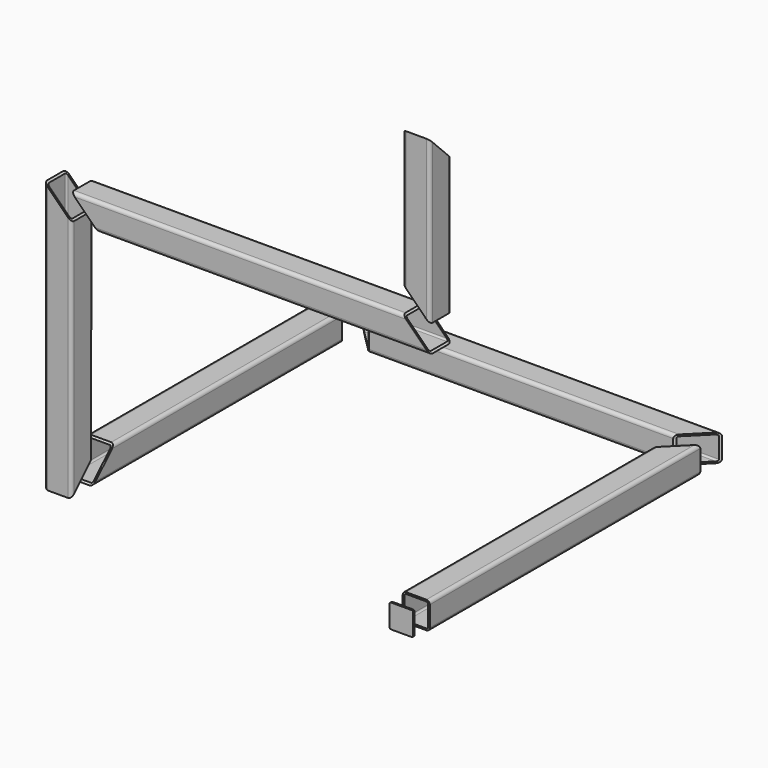
from build123d import *

# Parameters (mm, degrees)
F1_DEPTH  = 500
F3_DEPTH  = 40.001
F5_DEPTH  = 530
F7_DEPTH  = 264.2357556353
F10_DEPTH = 259.001
F14_DEPTH = 400
F16_DEPTH = 455.4894368181
F18_DEPTH = 531.1934248934
F20_DEPTH = 530
F22_DEPTH = 531.1934248934
F24_DEPTH = 240
F26_DEPTH = 531.1934248934
F28_DEPTH = 985.4894368181
F30_DEPTH = 500
F32_DEPTH = 985.4894368181
F34_DEPTH = 640.001
F37_DEPTH = 500
F39_DEPTH = 40.001
F41_DEPTH = 40.001
F43_DEPTH = 530
F45_DEPTH = 40.001
F47_DEPTH = 500
F49_DEPTH = 40.001
F52_DEPTH = 2.5


with BuildPart() as f1:
    # F0 (on Front) → F1 (new body)
    with BuildSketch(Plane.XZ):
        with BuildLine():
            ThreePointArc((0, 5), (1.4644660941, 1.4644660941), (5, 0))
            Line((5, 0), (35, 0))
            ThreePointArc((35, 0), (38.5355339059, 1.4644660941), (40, 5))
            Line((40, 5), (40, 35))
            ThreePointArc((40, 35), (38.5355339059, 38.5355339059), (35, 40))
            Line((35, 40), (5, 40))
            ThreePointArc((5, 40), (1.4644660941, 38.5355339059), (0, 35))
            Line((0, 35), (0, 5))
        make_face()
        with BuildLine():
            ThreePointArc((2.5, 35), (3.232233047, 36.767766953), (5, 37.5))
            Line((5, 37.5), (35, 37.5))
            ThreePointArc((35, 37.5), (36.767766953, 36.767766953), (37.5, 35))
            Line((37.5, 35), (37.5, 5))
            ThreePointArc((37.5, 5), (36.767766953, 3.232233047), (35, 2.5))
            Line((35, 2.5), (5, 2.5))
            ThreePointArc((5, 2.5), (3.232233047, 3.232233047), (2.5, 5))
            Line((2.5, 5), (2.5, 35))
        make_face(mode=Mode.SUBTRACT)
    extrude(amount=-F1_DEPTH)

    # F2 (on face) → F3 (cut, through all)
    with BuildSketch(Plane.XY.offset(40)):
        Polygon((0, 460), (40, 500), (0, 500), align=None)
    extrude(amount=-F3_DEPTH, mode=Mode.SUBTRACT)


with BuildPart() as f5:
    # F4 (on Front) → F5 (new body)
    with BuildSketch(Plane.XZ):
        with BuildLine():
            ThreePointArc((-232.1100574732, 229.2347556353), (-230.6455913791, 225.6992217293), (-227.1100574732, 224.2347556353))
            Line((-227.1100574732, 224.2347556353), (-197.1100574732, 224.2347556353))
            ThreePointArc((-197.1100574732, 224.2347556353), (-193.5745235672, 225.6992217293), (-192.1100574732, 229.2347556353))
            Line((-192.1100574732, 229.2347556353), (-192.1100574732, 259.2347556353))
            ThreePointArc((-192.1100574732, 259.2347556353), (-193.5745235672, 262.7702895412), (-197.1100574732, 264.2347556353))
            Line((-197.1100574732, 264.2347556353), (-227.1100574732, 264.2347556353))
            ThreePointArc((-227.1100574732, 264.2347556353), (-230.6455913791, 262.7702895412), (-232.1100574732, 259.2347556353))
            Line((-232.1100574732, 259.2347556353), (-232.1100574732, 229.2347556353))
        make_face()
        with BuildLine():
            ThreePointArc((-229.6100574732, 259.2347556353), (-228.8778244261, 261.0025225882), (-227.1100574732, 261.7347556353))
            Line((-227.1100574732, 261.7347556353), (-197.1100574732, 261.7347556353))
            ThreePointArc((-197.1100574732, 261.7347556353), (-195.3422905202, 261.0025225882), (-194.6100574732, 259.2347556353))
            Line((-194.6100574732, 259.2347556353), (-194.6100574732, 229.2347556353))
            ThreePointArc((-194.6100574732, 229.2347556353), (-195.3422905202, 227.4669886823), (-197.1100574732, 226.7347556353))
            Line((-197.1100574732, 226.7347556353), (-227.1100574732, 226.7347556353))
            ThreePointArc((-227.1100574732, 226.7347556353), (-228.8778244261, 227.4669886823), (-229.6100574732, 229.2347556353))
            Line((-229.6100574732, 229.2347556353), (-229.6100574732, 259.2347556353))
        make_face(mode=Mode.SUBTRACT)
    extrude(amount=-F5_DEPTH)

    # F6 (on face) → F7 (cut, through all)
    with BuildSketch(Plane.XY.offset(264.2347556353)):
        Polygon((-232.1100574732, 40), (-232.1100574732, 0), (-192.1100574732, 0), align=None)
        Polygon((-192.1100574732, 530), (-232.1100574732, 530), (-232.1100574732, 490), align=None)
    extrude(amount=-F7_DEPTH, mode=Mode.SUBTRACT)


with BuildPart() as f8_1:
    # F8: copy of F1
    add(f1.part.moved(Location((-219, 0, 7))))


with BuildPart() as f10_tool:
    # F9 (on face) → F10 (new body, through all)
    with BuildSketch(Plane(origin=(-219, 0, 0), x_dir=(0, -1, 0), z_dir=(-1, 0, 0))):
        Polygon((-40, 7), (0, 7), (0, 47), align=None)
    extrude(amount=-F10_DEPTH)


with BuildPart() as f1_1:
    add(f1.part)

    # F10: cut by f10_tool
    add(f10_tool.part, mode=Mode.SUBTRACT)


with BuildPart() as f8_1_1:
    add(f8_1.part)

    # F10: cut by f10_tool
    add(f10_tool.part, mode=Mode.SUBTRACT)


with BuildPart() as f11_1:
    # F11: copy of F1
    add(f1_1.part.moved(Location((124, 2, 116))))


with BuildPart() as f14:
    # F13 (on Top) → F14 (new body)
    with BuildSketch(Plane.XY):
        with BuildLine():
            ThreePointArc((183.3783793449, 3.8075751066), (184.842845439, 0.2720412007), (188.3783793449, -1.1924248934))
            Line((188.3783793449, -1.1924248934), (218.3783793449, -1.1924248934))
            ThreePointArc((218.3783793449, -1.1924248934), (221.9139132509, 0.2720412007), (223.3783793449, 3.8075751066))
            Line((223.3783793449, 3.8075751066), (223.3783793449, 33.8075751066))
            ThreePointArc((223.3783793449, 33.8075751066), (221.9139132509, 37.3431090126), (218.3783793449, 38.8075751066))
            Line((218.3783793449, 38.8075751066), (188.3783793449, 38.8075751066))
            ThreePointArc((188.3783793449, 38.8075751066), (184.842845439, 37.3431090126), (183.3783793449, 33.8075751066))
            Line((183.3783793449, 33.8075751066), (183.3783793449, 3.8075751066))
        make_face()
        with BuildLine():
            ThreePointArc((185.8783793449, 33.8075751066), (186.610612392, 35.5753420596), (188.3783793449, 36.3075751066))
            Line((188.3783793449, 36.3075751066), (218.3783793449, 36.3075751066))
            ThreePointArc((218.3783793449, 36.3075751066), (220.1461462979, 35.5753420596), (220.8783793449, 33.8075751066))
            Line((220.8783793449, 33.8075751066), (220.8783793449, 3.8075751066))
            ThreePointArc((220.8783793449, 3.8075751066), (220.1461462979, 2.0398081537), (218.3783793449, 1.3075751066))
            Line((218.3783793449, 1.3075751066), (188.3783793449, 1.3075751066))
            ThreePointArc((188.3783793449, 1.3075751066), (186.610612392, 2.0398081537), (185.8783793449, 3.8075751066))
            Line((185.8783793449, 3.8075751066), (185.8783793449, 33.8075751066))
        make_face(mode=Mode.SUBTRACT)
    extrude(amount=F14_DEPTH)


with BuildPart() as f16_tool:
    # F15 (on face) → F16 (new body, through all)
    with BuildSketch(Plane.YZ.offset(223.3783793449)):
        Polygon((-1.1924248934, 0), (38.8075751066, 0), (38.8075751066, 40), align=None)
    extrude(amount=-F16_DEPTH)


with BuildPart() as f1_2:
    add(f1_1.part)

    # F16: cut by f16_tool
    add(f16_tool.part, mode=Mode.SUBTRACT)


with BuildPart() as f8_1_2:
    add(f8_1_1.part)

    # F16: cut by f16_tool
    add(f16_tool.part, mode=Mode.SUBTRACT)


with BuildPart() as f14_1:
    add(f14.part)

    # F16: cut by f16_tool
    add(f16_tool.part, mode=Mode.SUBTRACT)

    # F17 (on face) → F18 (cut, through all)
    with BuildSketch(Plane.XZ.offset(1.1924248934)):
        Polygon((223.3783793449, 400), (183.3783793449, 400), (223.3783793449, 360), align=None)
    extrude(amount=-F18_DEPTH, mode=Mode.SUBTRACT)


with BuildPart() as f20:
    # F19 (on face) → F20 (new body)
    with BuildSketch(Plane.YZ.offset(223.3783793449)):
        with BuildLine():
            ThreePointArc((-1.1924248934, 365), (0.2720412007, 361.4644660941), (3.8075751066, 360))
            Line((3.8075751066, 360), (33.8075751066, 360))
            ThreePointArc((33.8075751066, 360), (37.3431090126, 361.4644660941), (38.8075751066, 365))
            Line((38.8075751066, 365), (38.8075751066, 395))
            ThreePointArc((38.8075751066, 395), (37.3431090126, 398.5355339059), (33.8075751066, 400))
            Line((33.8075751066, 400), (3.8075751066, 400))
            ThreePointArc((3.8075751066, 400), (0.2720412007, 398.5355339059), (-1.1924248934, 395))
            Line((-1.1924248934, 395), (-1.1924248934, 365))
        make_face()
        with BuildLine():
            ThreePointArc((1.3075751066, 395), (2.0398081537, 396.767766953), (3.8075751066, 397.5))
            Line((3.8075751066, 397.5), (33.8075751066, 397.5))
            ThreePointArc((33.8075751066, 397.5), (35.5753420596, 396.767766953), (36.3075751066, 395))
            Line((36.3075751066, 395), (36.3075751066, 365))
            ThreePointArc((36.3075751066, 365), (35.5753420596, 363.232233047), (33.8075751066, 362.5))
            Line((33.8075751066, 362.5), (3.8075751066, 362.5))
            ThreePointArc((3.8075751066, 362.5), (2.0398081537, 363.232233047), (1.3075751066, 365))
            Line((1.3075751066, 365), (1.3075751066, 395))
        make_face(mode=Mode.SUBTRACT)
    extrude(amount=F20_DEPTH)

    # F21 (on face) → F22 (cut, through all)
    with BuildSketch(Plane.XZ.offset(1.1924248934)):
        Polygon((263.3783793449, 360), (223.3783793449, 400), (223.3783793449, 360), align=None)
        Polygon((753.3783793449, 360), (753.3783793449, 400), (713.3783793449, 400), align=None)
    extrude(amount=-F22_DEPTH, mode=Mode.SUBTRACT)


with BuildPart() as f24:
    # F23 (on face) → F24 (new body)
    with BuildSketch(Plane.XY.offset(400)):
        with BuildLine():
            ThreePointArc((713.3783793449, 3.8075751066), (714.842845439, 0.2720412007), (718.3783793449, -1.1924248934))
            Line((718.3783793449, -1.1924248934), (748.3783793449, -1.1924248934))
            ThreePointArc((748.3783793449, -1.1924248934), (751.9139132509, 0.2720412007), (753.3783793449, 3.8075751066))
            Line((753.3783793449, 3.8075751066), (753.3783793449, 33.8075751066))
            ThreePointArc((753.3783793449, 33.8075751066), (751.9139132509, 37.3431090126), (748.3783793449, 38.8075751066))
            Line((748.3783793449, 38.8075751066), (718.3783793449, 38.8075751066))
            ThreePointArc((718.3783793449, 38.8075751066), (714.842845439, 37.3431090126), (713.3783793449, 33.8075751066))
            Line((713.3783793449, 33.8075751066), (713.3783793449, 3.8075751066))
        make_face()
        with BuildLine():
            ThreePointArc((715.8783793449, 33.8075751066), (716.610612392, 35.5753420596), (718.3783793449, 36.3075751066))
            Line((718.3783793449, 36.3075751066), (748.3783793449, 36.3075751066))
            ThreePointArc((748.3783793449, 36.3075751066), (750.1461462979, 35.5753420596), (750.8783793449, 33.8075751066))
            Line((750.8783793449, 33.8075751066), (750.8783793449, 3.8075751066))
            ThreePointArc((750.8783793449, 3.8075751066), (750.1461462979, 2.0398081537), (748.3783793449, 1.3075751066))
            Line((748.3783793449, 1.3075751066), (718.3783793449, 1.3075751066))
            ThreePointArc((718.3783793449, 1.3075751066), (716.610612392, 2.0398081537), (715.8783793449, 3.8075751066))
            Line((715.8783793449, 3.8075751066), (715.8783793449, 33.8075751066))
        make_face(mode=Mode.SUBTRACT)
    extrude(amount=F24_DEPTH)

    # F25 (on face) → F26 (cut, through all)
    with BuildSketch(Plane.XZ.offset(1.1924248934)):
        Polygon((713.3783793449, 400), (753.3783793449, 400), (713.3783793449, 440), align=None)
    extrude(amount=-F26_DEPTH, mode=Mode.SUBTRACT)

    # F27 (on face) → F28 (cut, through all)
    with BuildSketch(Plane.YZ.offset(753.3783793449)):
        Polygon((38.8075751066, 640), (-1.1924248934, 640), (38.8075751066, 600), align=None)
    extrude(amount=-F28_DEPTH, mode=Mode.SUBTRACT)


with BuildPart() as f30:
    # F29 (on face) → F30 (new body)
    with BuildSketch(Plane(origin=(0, 38.8075751066, 0), x_dir=(-1, 0, 0), z_dir=(0, 1, 0))):
        with BuildLine():
            ThreePointArc((-753.3783793449, 605), (-751.9139132509, 601.4644660941), (-748.3783793449, 600))
            Line((-748.3783793449, 600), (-718.3783793449, 600))
            ThreePointArc((-718.3783793449, 600), (-714.842845439, 601.4644660941), (-713.3783793449, 605))
            Line((-713.3783793449, 605), (-713.3783793449, 635))
            ThreePointArc((-713.3783793449, 635), (-714.842845439, 638.5355339059), (-718.3783793449, 640))
            Line((-718.3783793449, 640), (-748.3783793449, 640))
            ThreePointArc((-748.3783793449, 640), (-751.9139132509, 638.5355339059), (-753.3783793449, 635))
            Line((-753.3783793449, 635), (-753.3783793449, 605))
        make_face()
        with BuildLine():
            ThreePointArc((-750.8783793449, 635), (-750.1461462979, 636.767766953), (-748.3783793449, 637.5))
            Line((-748.3783793449, 637.5), (-718.3783793449, 637.5))
            ThreePointArc((-718.3783793449, 637.5), (-716.610612392, 636.767766953), (-715.8783793449, 635))
            Line((-715.8783793449, 635), (-715.8783793449, 605))
            ThreePointArc((-715.8783793449, 605), (-716.610612392, 603.232233047), (-718.3783793449, 602.5))
            Line((-718.3783793449, 602.5), (-748.3783793449, 602.5))
            ThreePointArc((-748.3783793449, 602.5), (-750.1461462979, 603.232233047), (-750.8783793449, 605))
            Line((-750.8783793449, 605), (-750.8783793449, 635))
        make_face(mode=Mode.SUBTRACT)
    extrude(amount=F30_DEPTH)

    # F31 (on face) → F32 (cut, through all)
    with BuildSketch(Plane.YZ.offset(753.3783793449)):
        Polygon((78.8075751066, 600), (38.8075751066, 640), (38.8075751066, 600), align=None)
    extrude(amount=-F32_DEPTH, mode=Mode.SUBTRACT)

    # F33 (on face) → F34 (cut, through all)
    with BuildSketch(Plane.XY.offset(640)):
        Polygon((753.3783793449, 538.8075751066), (713.3783793449, 538.8075751066), (713.3783793449, 498.8075751066), align=None)
    extrude(amount=-F34_DEPTH, mode=Mode.SUBTRACT)


with BuildPart() as f37:
    # F36 (on face) → F37 (new body)
    with BuildSketch(Plane(origin=(0, 38.8075751066, 0), x_dir=(-1, 0, 0), z_dir=(0, 1, 0))):
        with BuildLine():
            ThreePointArc((-223.3783793449, 5), (-221.9139132509, 1.4644660941), (-218.3783793449, 0))
            Line((-218.3783793449, 0), (-188.3783793449, 0))
            ThreePointArc((-188.3783793449, 0), (-184.842845439, 1.4644660941), (-183.3783793449, 5))
            Line((-183.3783793449, 5), (-183.3783793449, 35))
            ThreePointArc((-183.3783793449, 35), (-184.842845439, 38.5355339059), (-188.3783793449, 40))
            Line((-188.3783793449, 40), (-218.3783793449, 40))
            ThreePointArc((-218.3783793449, 40), (-221.9139132509, 38.5355339059), (-223.3783793449, 35))
            Line((-223.3783793449, 35), (-223.3783793449, 5))
        make_face()
        with BuildLine():
            ThreePointArc((-220.8783793449, 35), (-220.1461462979, 36.767766953), (-218.3783793449, 37.5))
            Line((-218.3783793449, 37.5), (-188.3783793449, 37.5))
            ThreePointArc((-188.3783793449, 37.5), (-186.610612392, 36.767766953), (-185.8783793449, 35))
            Line((-185.8783793449, 35), (-185.8783793449, 5))
            ThreePointArc((-185.8783793449, 5), (-186.610612392, 3.232233047), (-188.3783793449, 2.5))
            Line((-188.3783793449, 2.5), (-218.3783793449, 2.5))
            ThreePointArc((-218.3783793449, 2.5), (-220.1461462979, 3.232233047), (-220.8783793449, 5))
            Line((-220.8783793449, 5), (-220.8783793449, 35))
        make_face(mode=Mode.SUBTRACT)
    extrude(amount=F37_DEPTH)

    # F38 (on face) → F39 (cut, through all)
    with BuildSketch(Plane.YZ.offset(223.3783793449)):
        Polygon((38.8075751066, 0), (78.8075751066, 40), (38.8075751066, 40), align=None)
    extrude(amount=-F39_DEPTH, mode=Mode.SUBTRACT)

    # F40 (on face) → F41 (cut, through all)
    with BuildSketch(Plane.XY.offset(40)):
        Polygon((223.3783793449, 538.8075751066), (183.3783793449, 538.8075751066), (223.3783793449, 498.8075751066), align=None)
    extrude(amount=-F41_DEPTH, mode=Mode.SUBTRACT)


with BuildPart() as f43:
    # F42 (on face) → F43 (new body)
    with BuildSketch(Plane.YZ.offset(223.3783793449)):
        with BuildLine():
            ThreePointArc((498.8075751066, 5), (500.2720412007, 1.4644660941), (503.8075751066, 0))
            Line((503.8075751066, 0), (533.8075751066, 0))
            ThreePointArc((533.8075751066, 0), (537.3431090126, 1.4644660941), (538.8075751066, 5))
            Line((538.8075751066, 5), (538.8075751066, 35))
            ThreePointArc((538.8075751066, 35), (537.3431090126, 38.5355339059), (533.8075751066, 40))
            Line((533.8075751066, 40), (503.8075751066, 40))
            ThreePointArc((503.8075751066, 40), (500.2720412007, 38.5355339059), (498.8075751066, 35))
            Line((498.8075751066, 35), (498.8075751066, 5))
        make_face()
        with BuildLine():
            ThreePointArc((501.3075751066, 35), (502.0398081537, 36.767766953), (503.8075751066, 37.5))
            Line((503.8075751066, 37.5), (533.8075751066, 37.5))
            ThreePointArc((533.8075751066, 37.5), (535.5753420596, 36.767766953), (536.3075751066, 35))
            Line((536.3075751066, 35), (536.3075751066, 5))
            ThreePointArc((536.3075751066, 5), (535.5753420596, 3.232233047), (533.8075751066, 2.5))
            Line((533.8075751066, 2.5), (503.8075751066, 2.5))
            ThreePointArc((503.8075751066, 2.5), (502.0398081537, 3.232233047), (501.3075751066, 5))
            Line((501.3075751066, 5), (501.3075751066, 35))
        make_face(mode=Mode.SUBTRACT)
    extrude(amount=F43_DEPTH)

    # F44 (on face) → F45 (cut, through all)
    with BuildSketch(Plane.XY.offset(40)):
        Polygon((263.3783793449, 498.8075751066), (223.3783793449, 538.8075751066), (223.3783793449, 498.8075751066), align=None)
        Polygon((753.3783793449, 498.8075751066), (753.3783793449, 538.8075751066), (713.3783793449, 498.8075751066), align=None)
    extrude(amount=-F45_DEPTH, mode=Mode.SUBTRACT)


with BuildPart() as f47:
    # F46 (on face) → F47 (new body)
    with BuildSketch(Plane.XZ.offset(-498.8075751066)):
        with BuildLine():
            ThreePointArc((713.3783793449, 5), (714.842845439, 1.4644660941), (718.3783793449, 0))
            Line((718.3783793449, 0), (748.3783793449, 0))
            ThreePointArc((748.3783793449, 0), (751.9139132509, 1.4644660941), (753.3783793449, 5))
            Line((753.3783793449, 5), (753.3783793449, 35))
            ThreePointArc((753.3783793449, 35), (751.9139132509, 38.5355339059), (748.3783793449, 40))
            Line((748.3783793449, 40), (718.3783793449, 40))
            ThreePointArc((718.3783793449, 40), (714.842845439, 38.5355339059), (713.3783793449, 35))
            Line((713.3783793449, 35), (713.3783793449, 5))
        make_face()
        with BuildLine():
            ThreePointArc((715.8783793449, 35), (716.610612392, 36.767766953), (718.3783793449, 37.5))
            Line((718.3783793449, 37.5), (748.3783793449, 37.5))
            ThreePointArc((748.3783793449, 37.5), (750.1461462979, 36.767766953), (750.8783793449, 35))
            Line((750.8783793449, 35), (750.8783793449, 5))
            ThreePointArc((750.8783793449, 5), (750.1461462979, 3.232233047), (748.3783793449, 2.5))
            Line((748.3783793449, 2.5), (718.3783793449, 2.5))
            ThreePointArc((718.3783793449, 2.5), (716.610612392, 3.232233047), (715.8783793449, 5))
            Line((715.8783793449, 5), (715.8783793449, 35))
        make_face(mode=Mode.SUBTRACT)
    extrude(amount=F47_DEPTH)

    # F48 (on face) → F49 (cut, through all)
    with BuildSketch(Plane.XY.offset(40)):
        Polygon((713.3783793449, 458.8075751066), (753.3783793449, 498.8075751066), (713.3783793449, 498.8075751066), align=None)
    extrude(amount=-F49_DEPTH, mode=Mode.SUBTRACT)


with BuildPart() as f52:
    # F51 (on offset) → F52 (new body)
    with BuildSketch(Plane.XZ.offset(26.1924248934)):
        with BuildLine():
            Line((748.3783793449, 37.5), (718.3783793449, 37.5))
            ThreePointArc((718.3783793449, 37.5), (716.610612392, 36.767766953), (715.8783793449, 35))
            Line((715.8783793449, 35), (715.8783793449, 5))
            ThreePointArc((715.8783793449, 5), (716.610612392, 3.232233047), (718.3783793449, 2.5))
            Line((718.3783793449, 2.5), (748.3783793449, 2.5))
            ThreePointArc((748.3783793449, 2.5), (750.1461462979, 3.232233047), (750.8783793449, 5))
            Line((750.8783793449, 5), (750.8783793449, 35))
            ThreePointArc((750.8783793449, 35), (750.1461462979, 36.767766953), (748.3783793449, 37.5))
        make_face()
    extrude(amount=F52_DEPTH)


solid = Compound([f14_1.part, f20.part, f24.part, f37.part, f43.part, f47.part, f52.part])
